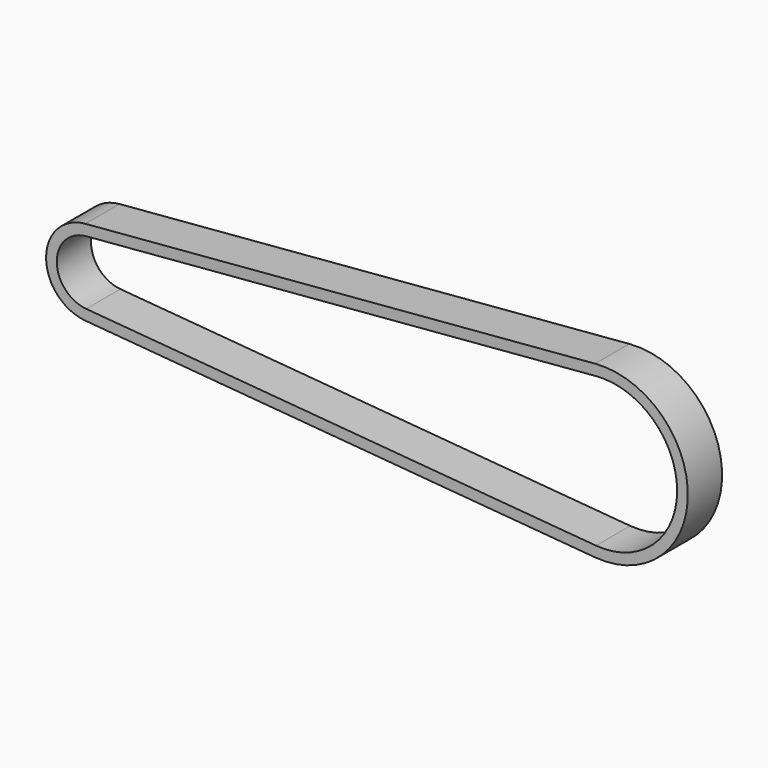
from build123d import *

# Parameters (mm, degrees)
F1_DEPTH = 12.7


with BuildPart() as f1:
    # F0 (on Front) → F1 (new body)
    with BuildSketch(Plane.XZ):
        with BuildLine():
            Line((150.283333, 25.311652), (-1.058333, 12.655826))
            ThreePointArc((-1.058333, 12.655826), (-12.7, 0), (-1.058333, -12.655826))
            Line((-1.058333, -12.655826), (150.283333, -25.311652))
            ThreePointArc((150.283333, -25.311652), (177.8, 0), (150.283333, 25.311652))
        make_face()
        with BuildLine():
            ThreePointArc((-0.79375, -9.491869), (-9.525, 0), (-0.79375, 9.491869))
            Line((-0.79375, 9.491869), (150.547917, 22.147695))
            ThreePointArc((150.547917, 22.147695), (167.446396, 16.357157), (174.625, 0))
            ThreePointArc((174.625, 0), (167.446396, -16.357157), (150.547917, -22.147695))
            Line((150.547917, -22.147695), (-0.79375, -9.491869))
        make_face(mode=Mode.SUBTRACT)
    extrude(amount=F1_DEPTH)


solid = f1.part
